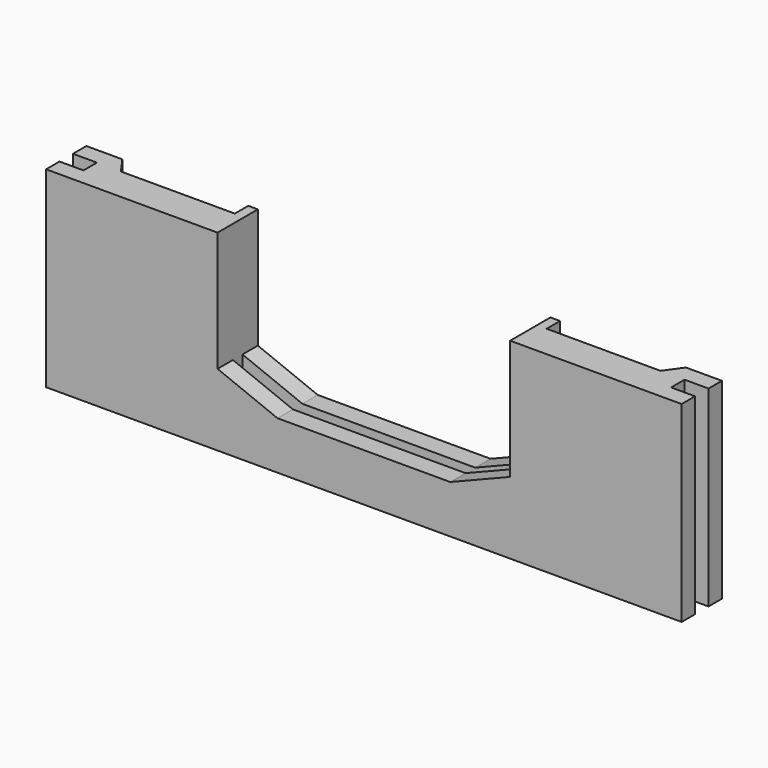
from build123d import *

# Parameters (mm, degrees)
F1_DEPTH = 20.32
F2_W     = 30.988
F2_H     = 5.334
F3_DEPTH = 12.7
F4_W     = 30.988
F4_H     = 1.27
F5_DEPTH = 3.556
F7_DEPTH = 5.334


with BuildPart() as f1:
    # F0 (on Top) → F1 (new body)
    with BuildSketch(Plane.XY):
        Polygon((-31.115, 1.778), (-33.655, 1.778), (-33.655, 0), (33.655, 0), (33.655, 1.778), (31.115, 1.778), (31.115, 3.556), (33.655, 3.556), (33.655, 5.334), (29.845, 5.334), (28.575, 3.556), (16.51, 3.556), (16.51, 5.334), (-16.51, 5.334), (-16.51, 3.556), (-28.575, 3.556), (-29.845, 5.334), (-33.655, 5.334), (-33.655, 3.556), (-31.115, 3.556), align=None)
    extrude(amount=F1_DEPTH)

    # F2 (on face) → F3 (cut)
    with BuildSketch(Plane.XY.offset(20.32)):
        with Locations((0, 2.667)):
            Rectangle(F2_W, F2_H)
    extrude(amount=-F3_DEPTH, mode=Mode.SUBTRACT)

    # F4 (on face) → F5 (cut)
    with BuildSketch(Plane.XY.offset(7.62)):
        with Locations((0, 2.667)):
            Rectangle(F4_W, F4_H)
    extrude(amount=-F5_DEPTH, mode=Mode.SUBTRACT)

    # F6 (on face) → F7 (cut, through all)
    with BuildSketch(Plane.XZ):
        Polygon((15.494, 7.62), (-15.494, 7.62), (-9.144, 5.08), (9.144, 5.08), align=None)
    extrude(amount=-F7_DEPTH, mode=Mode.SUBTRACT)


solid = f1.part
